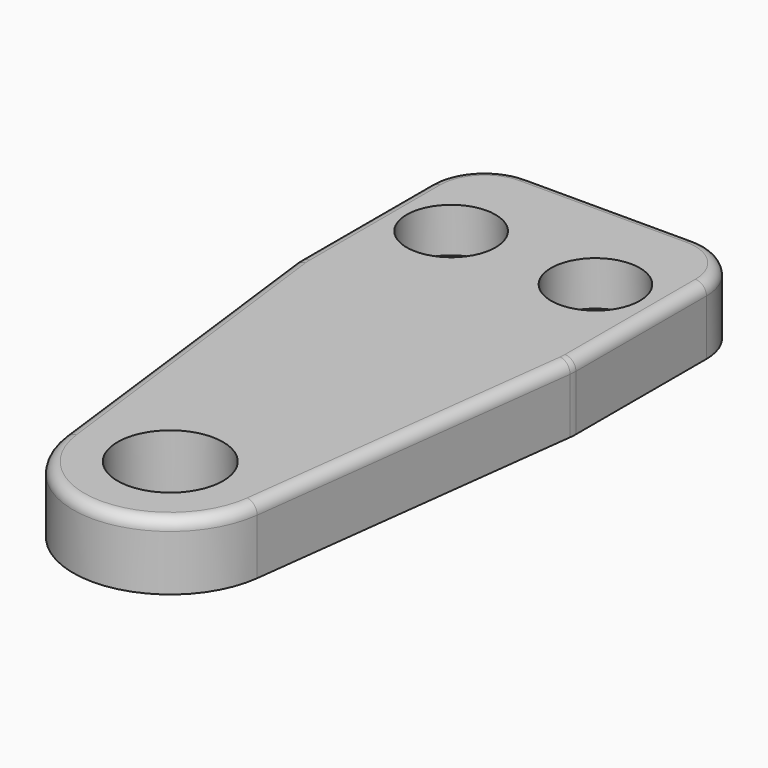
from build123d import *

# Parameters (mm, degrees)
F0_R     = 4.75
F0_R_2   = 4
F0_R_3   = 2.35
F1_DEPTH = 6
F2_DEPTH = 4
F3_R     = 5
F4_R     = 1


with BuildPart() as f1:
    # F0 (on Top) → F1 (new body)
    with BuildSketch(Plane.XY):
        with BuildLine():
            Line((12.5, 49.75), (-12.5, 49.75))
            Line((-12.5, 49.75), (-12.5, 29.75))
            Line((-12.5, 29.75), (-8.683703, -1.075085))
            ThreePointArc((-8.683703, -1.075085), (0, -8.75), (8.683703, -1.075085))
            Line((8.683703, -1.075085), (12.5, 29.75))
            Line((12.5, 29.75), (12.5, 49.75))
        make_face()
        Circle(F0_R, mode=Mode.SUBTRACT)
        with Locations((-6.5, 39.75)):
            Circle(F0_R_2, mode=Mode.SUBTRACT)
        with Locations((6.5, 39.75)):
            Circle(F0_R_2, mode=Mode.SUBTRACT)
        with Locations((-6.5, 39.75)):
            Circle(F0_R_2)
        with Locations((-6.5, 39.75)):
            Circle(F0_R_3, mode=Mode.SUBTRACT)
        with Locations((6.5, 39.75)):
            Circle(F0_R_2)
        with Locations((6.5, 39.75)):
            Circle(F0_R_3, mode=Mode.SUBTRACT)
    extrude(amount=-F1_DEPTH)

    # F0 (on Top) → F2 (cut)
    with BuildSketch(Plane.XY):
        with Locations((-6.5, 39.75)):
            Circle(F0_R_2)
        with Locations((-6.5, 39.75)):
            Circle(F0_R_3, mode=Mode.SUBTRACT)
        with Locations((6.5, 39.75)):
            Circle(F0_R_2)
        with Locations((6.5, 39.75)):
            Circle(F0_R_3, mode=Mode.SUBTRACT)
    extrude(amount=-F2_DEPTH, mode=Mode.SUBTRACT)

    # F3
    f3_edges = [f1.edges().sort_by_distance(p)[0] for p in [
        (-12.5, 49.75, -3),
        (12.5, 49.75, -3),
        (-12.5, 29.75, -3),
        (12.5, 29.75, -3),
    ]]
    fillet(f3_edges, radius=F3_R)

    # F4
    f4_edges = [f1.edges().sort_by_distance(p)[0] for p in [
        (-10.572909, 14.184458, 0),
    ]]
    fillet(f4_edges, radius=F4_R)


solid = f1.part
